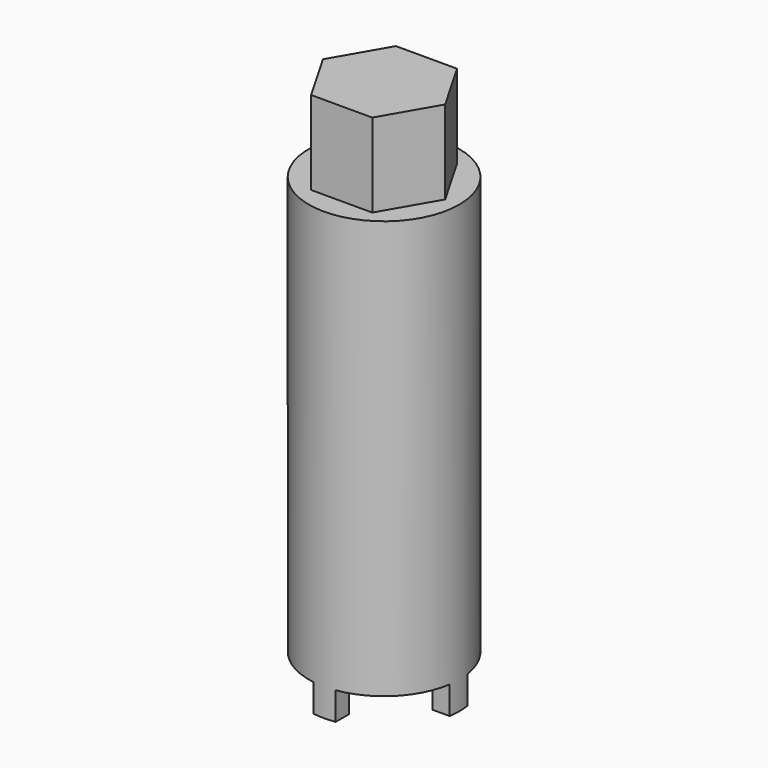
from build123d import *

# Parameters (mm, degrees)
F1_DEPTH = 15
F2_R     = 13.5
F3_DEPTH = 80
F4_R     = 10.5
F5_DEPTH = 21.6
F7_DEPTH = 5


with BuildPart() as f1:
    # F0 (on Top) → F1 (new body)
    with BuildSketch(Plane.XY):
        Polygon((-5.484828, 9.5), (-10.969655, 0), (-5.484828, -9.5), (5.484828, -9.5), (10.969655, 0), (5.484828, 9.5), align=None)
    extrude(amount=F1_DEPTH)

    # F2 (on face) → F3 (join)
    with BuildSketch(Plane(origin=(0, 0, 0), x_dir=(1, 0, 0), z_dir=(0, 0, -1))):
        Circle(F2_R)
    extrude(amount=F3_DEPTH)

    # F4 (on face) → F5 (cut)
    with BuildSketch(Plane(origin=(0, 0, -80), x_dir=(1, 0, 0), z_dir=(0, 0, -1))):
        Circle(F4_R)
    extrude(amount=-F5_DEPTH, mode=Mode.SUBTRACT)

    # F6 (on face) → F7 (cut)
    with BuildSketch(Plane(origin=(0, 0, -80), x_dir=(1, 0, 0), z_dir=(0, 0, -1))):
        with BuildLine():
            ThreePointArc((10.307764, -2), (7.424621, -7.424621), (2, -10.307764))
            Line((2, -10.307764), (2, -13.35103))
            ThreePointArc((2, -13.35103), (9.545942, -9.545942), (13.35103, -2))
            Line((13.35103, -2), (10.307764, -2))
        make_face()
        with BuildLine():
            Line((-10.307764, -2), (-13.35103, -2))
            ThreePointArc((-13.35103, -2), (-9.545942, -9.545942), (-2, -13.35103))
            Line((-2, -13.35103), (-2, -10.307764))
            ThreePointArc((-2, -10.307764), (-7.424621, -7.424621), (-10.307764, -2))
        make_face()
        with BuildLine():
            ThreePointArc((-2, 13.35103), (-9.545942, 9.545942), (-13.35103, 2))
            Line((-13.35103, 2), (-10.307764, 2))
            ThreePointArc((-10.307764, 2), (-7.424621, 7.424621), (-2, 10.307764))
            Line((-2, 10.307764), (-2, 13.35103))
        make_face()
        with BuildLine():
            ThreePointArc((13.35103, 2), (9.545942, 9.545942), (2, 13.35103))
            Line((2, 13.35103), (2, 10.307764))
            ThreePointArc((2, 10.307764), (7.424621, 7.424621), (10.307764, 2))
            Line((10.307764, 2), (13.35103, 2))
        make_face()
    extrude(amount=-F7_DEPTH, mode=Mode.SUBTRACT)


solid = f1.part
